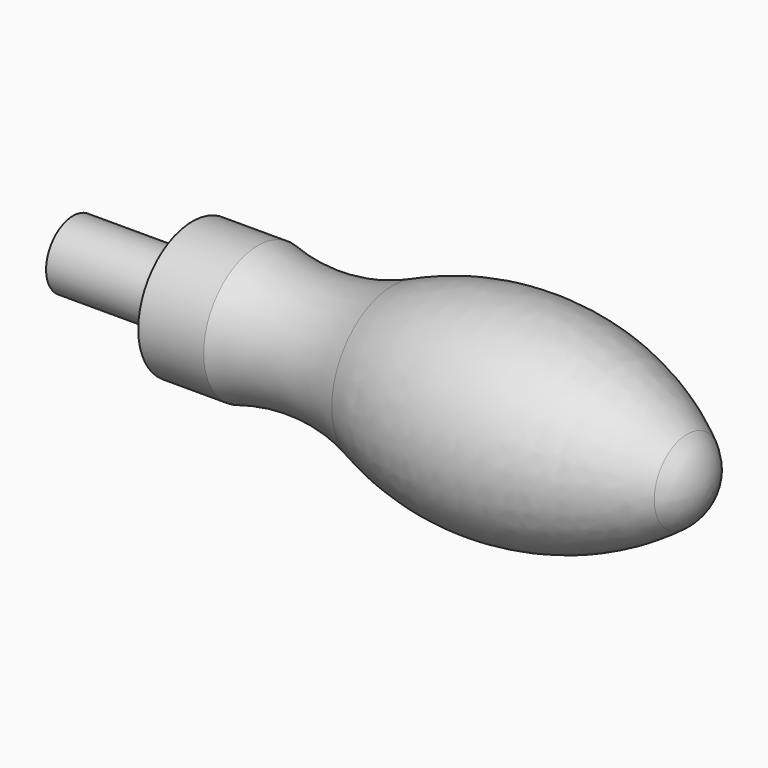
from build123d import *

# Parameters (mm, degrees)
F0_W = 23
F0_H = 6.5


with BuildPart() as f1:
    # F0 (on Top) → F1 (revolve)
    with BuildSketch(Plane.XY):
        with BuildLine():
            ThreePointArc((-48.384314, -13.025201), (-35.207326, -11.572218), (-22.333078, -14.734163))
            ThreePointArc((-22.333078, -14.734163), (6.970956, -19.115846), (34.408913, -7.931744))
            ThreePointArc((34.408913, -7.931744), (37.288345, -4.421569), (38.318968, 0))
            Line((38.318968, 0), (-61, 0))
            Line((-61, 0), (-61, -6.5))
            Line((-61, -6.5), (-61, -13.025201))
            Line((-61, -13.025201), (-48.384314, -13.025201))
        make_face()
        with Locations((-72.5, -3.25)):
            Rectangle(F0_W, F0_H)
    revolve(axis=Axis((-16.390089, 0, 0), (-1, 0, 0)))


solid = f1.part
